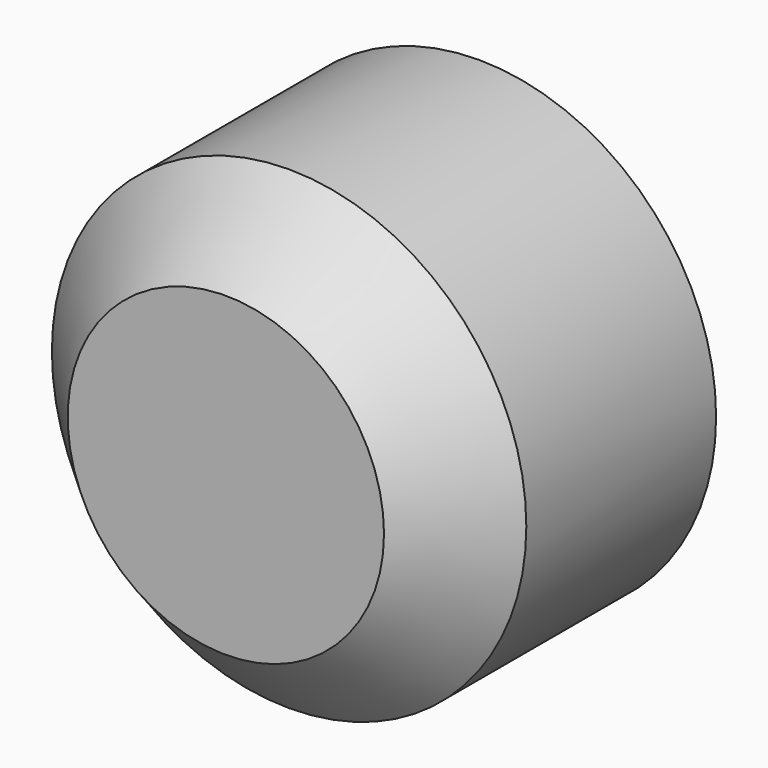
from build123d import *

# Parameters (mm, degrees)
F0_R     = 38.1
F1_DEPTH = 50.8
F2_SIZE  = 12.7


with BuildPart() as f1:
    # F0 (on Front) → F1 (new body)
    with BuildSketch(Plane.XZ):
        Circle(F0_R)
    extrude(amount=F1_DEPTH)

    # F2
    f2_edges = [f1.edges().sort_by_distance(p)[0] for p in [
        (-38.1, -50.8, 0),
    ]]
    chamfer(f2_edges, length=F2_SIZE)


solid = f1.part
